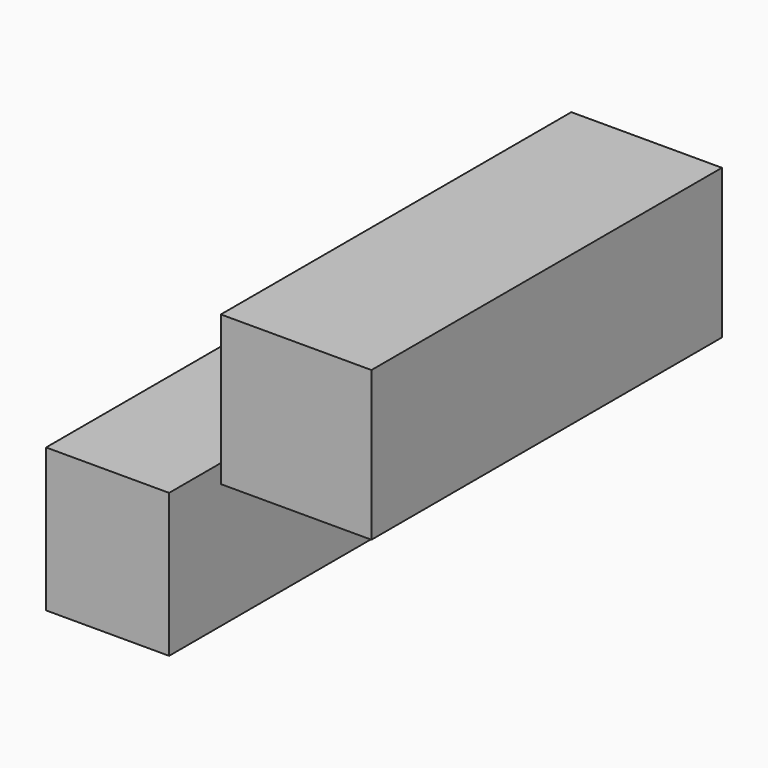
from build123d import *

# Parameters (mm, degrees)
F0_W     = 34.379598
F0_H     = 34.099918
F1_DEPTH = 100
F3_DEPTH = 100


with BuildPart() as f1:
    # F0 (on Front) → F1 (new body)
    with BuildSketch(Plane.XZ):
        Rectangle(F0_W, F0_H)
    extrude(amount=F1_DEPTH)


with BuildPart() as f3:
    # F2 (on Front) → F3 (new body)
    with BuildSketch(Plane.XZ):
        Polygon((-48.201155, -55.404838), (-28.997583, -55.404838), (-28.997583, -22.652473), (-57.083549, -22.652473), (-57.083549, -55.404838), align=None)
        Polygon((-48.201155, -55.404838), (-28.997583, -55.404838), (-28.997583, -22.652473), (-57.083549, -22.652473), (-57.083549, -55.404838), align=None)
    extrude(amount=F3_DEPTH)


solid = Compound([f1.part, f3.part])
